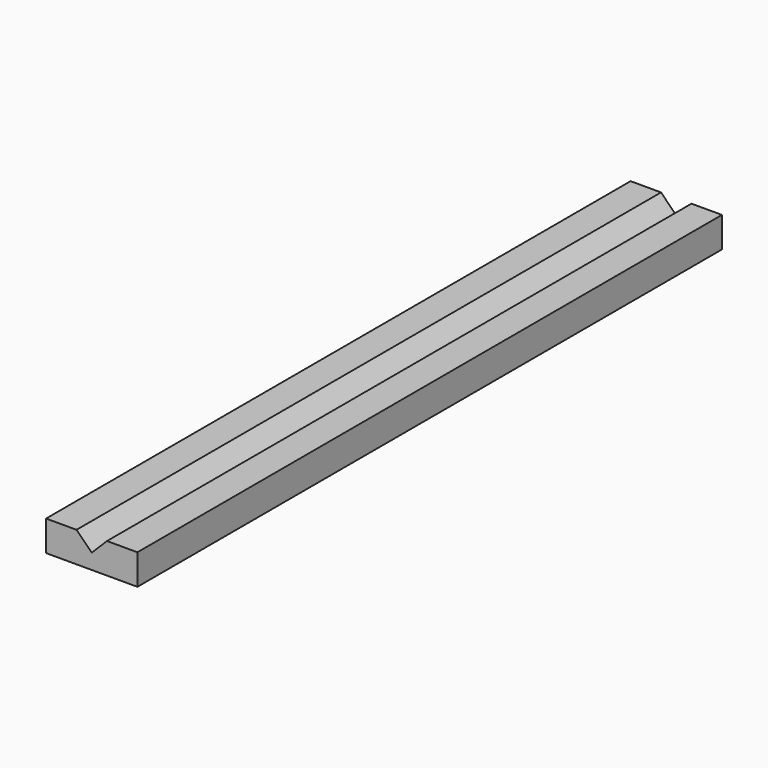
from build123d import *

# Parameters (mm, degrees)
F0_W     = 38.1
F0_H     = 12.7
F1_DEPTH = 304.8
F3_DEPTH = 304.801


with BuildPart() as f1:
    # F0 (on Front) → F1 (new body)
    with BuildSketch(Plane.XZ):
        Rectangle(F0_W, F0_H)
    extrude(amount=F1_DEPTH)

    # F2 (on face) → F3 (cut, through all)
    with BuildSketch(Plane.XZ.offset(304.8)):
        Polygon((-6.35, 6.35), (0, 0), (6.35, 6.35), align=None)
    extrude(amount=-F3_DEPTH, mode=Mode.SUBTRACT)


solid = f1.part
